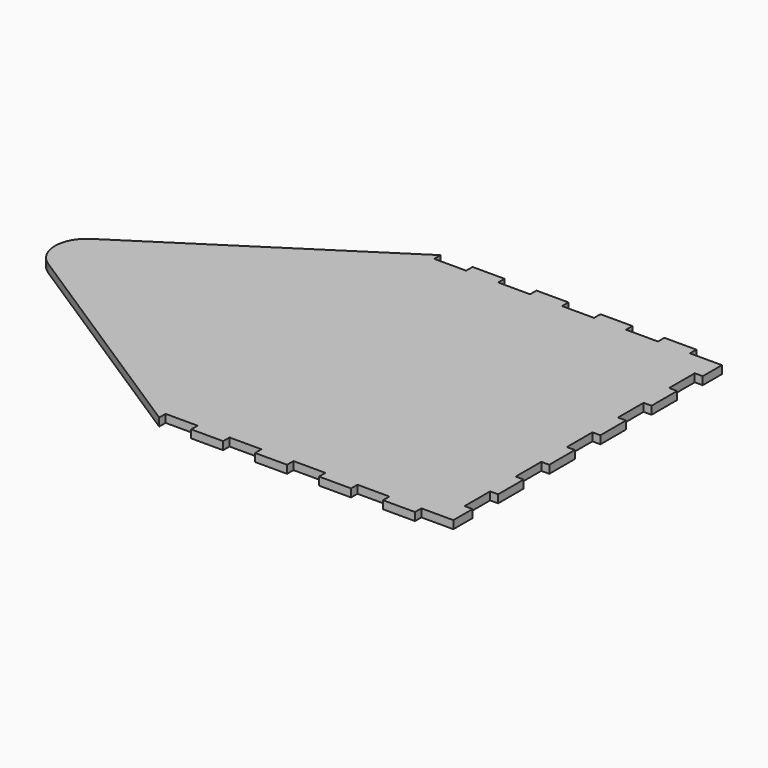
from build123d import *

# Parameters (mm, degrees)
F1_DEPTH = 2.5
F2_R     = 10


with BuildPart() as f1:
    # F0 (on Top) → F1 (new body)
    with BuildSketch(Plane.XY):
        Polygon((55, -55), (65, -55), (65, -52.5), (75, -52.5), (75, -45), (72.5, -45), (72.5, -35), (75, -35), (75, -25), (72.5, -25), (72.5, -15), (75, -15), (75, -5), (72.5, -5), (72.5, 5), (75, 5), (75, 15), (72.5, 15), (72.5, 25), (75, 25), (75, 35), (72.5, 35), (72.5, 45), (75, 45), (75, 52.5), (65, 52.5), (65, 55), (55, 55), (55, 52.5), (45, 52.5), (45, 55), (35, 55), (35, 52.5), (25, 52.5), (25, 55), (15, 55), (15, 52.5), (5, 52.5), (5, 55), (-5, 55), (-5, 52.5), (-15, 52.5), (-15, 55), (-100, 0), (-15, -55), (-15, -52.5), (-5, -52.5), (-5, -55), (5, -55), (5, -52.5), (15, -52.5), (15, -55), (25, -55), (25, -52.5), (35, -52.5), (35, -55), (45, -55), (45, -52.5), (55, -52.5), align=None)
    extrude(amount=F1_DEPTH)

    # F2
    f2_edges = [f1.edges().sort_by_distance(p)[0] for p in [
        (-100, 0, 1.25),
    ]]
    fillet(f2_edges, radius=F2_R)


solid = f1.part
